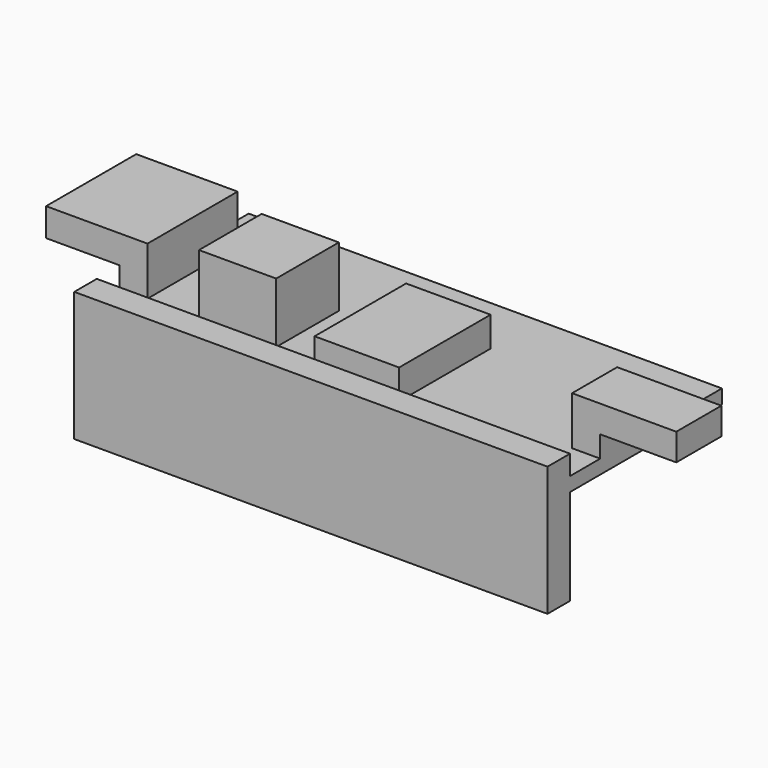
from build123d import *

# Parameters (mm, degrees)
F0_W      = 42
F0_H      = 19.35
F1_DEPTH  = 1.25
F2_W      = 2.5
F2_H      = 8.5
F2_H_2    = 1.75
F3_DEPTH  = 42
F4_W      = 2.5
F4_H      = 5
F4_W_2    = 6.75
F4_W_3    = 6.5
F4_H_2    = 10
F5_DEPTH  = 4.3
F6_W      = 5
F6_H      = 1.9
F7_DEPTH  = 6.75
F8_W      = 10
F8_H      = 1.8
F9_DEPTH  = 6.5
F4_W_4    = 6.85
F4_H_3    = 6.95
F10_DEPTH = 5.35
F4_W_5    = 7.5
F4_H_4    = 10.15
F11_DEPTH = 2.65


with BuildPart() as f1:
    # F0 (on Top) → F1 (new body)
    with BuildSketch(Plane.XY):
        with Locations((21, 9.675)):
            Rectangle(F0_W, F0_H)
    extrude(amount=F1_DEPTH)

    # F2 (on face) → F3 (join)
    with BuildSketch(Plane.YZ.offset(42)):
        with Locations((1.25, -4.25)):
            Rectangle(F2_W, F2_H)
        with Locations((1.25, 2.125)):
            Rectangle(F2_W, F2_H_2)
    extrude(amount=-F3_DEPTH)

    # F4 (on face) → F5 (join)
    with BuildSketch(Plane.XY.offset(1.25)):
        with Locations((40.75, 8.35)):
            Rectangle(F4_W, F4_H)
        with Locations((45.375, 8.35)):
            Rectangle(F4_W_2, F4_H)
        with Locations((-3.25, 10)):
            Rectangle(F4_W_3, F4_H_2)
        with Locations((1.25, 10)):
            Rectangle(F4_W, F4_H_2)
    extrude(amount=F5_DEPTH)

    # F6 (on face) → F7 (cut)
    with BuildSketch(Plane.YZ.offset(48.75)):
        with Locations((8.35, 2.2)):
            Rectangle(F6_W, F6_H)
    extrude(amount=-F7_DEPTH, mode=Mode.SUBTRACT)

    # F8 (on face) → F9 (cut)
    with BuildSketch(Plane(origin=(-6.5, 0, 0), x_dir=(0, -1, 0), z_dir=(-1, 0, 0))):
        with Locations((-10, 2.15)):
            Rectangle(F8_W, F8_H)
    extrude(amount=-F9_DEPTH, mode=Mode.SUBTRACT)

    # F4 (on face) → F10 (join)
    with BuildSketch(Plane.XY.offset(1.25)):
        with Locations((10.575, 8.375)):
            Rectangle(F4_W_4, F4_H_3)
    extrude(amount=F10_DEPTH)

    # F4 (on face) → F11 (join)
    with BuildSketch(Plane.XY.offset(1.25)):
        with Locations((22, 8.925)):
            Rectangle(F4_W_5, F4_H_4)
    extrude(amount=F11_DEPTH)


solid = f1.part
